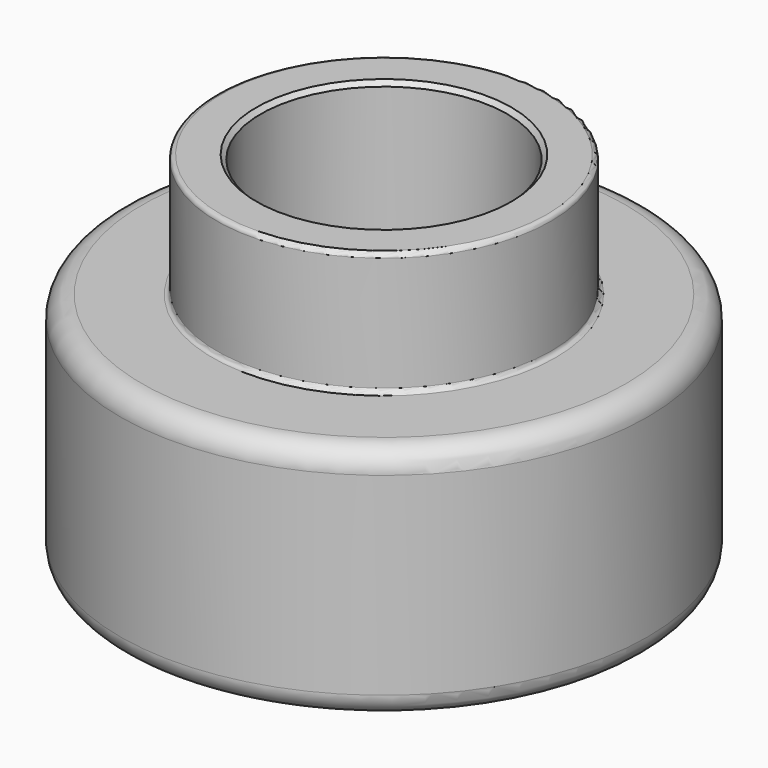
from build123d import *

# Parameters (mm, degrees)
F0_R     = 30
F0_R_2   = 19
F0_R_3   = 14
F1_DEPTH = 27
F2_DEPTH = 41
F3_R     = 2.5
F4_R     = 0.5
F5_SIZE  = 0.5


with BuildPart() as f1:
    # F0 (on Top) → F1 (new body)
    with BuildSketch(Plane.XY):
        Circle(F0_R)
        Circle(F0_R_2, mode=Mode.SUBTRACT)
        Circle(F0_R_2)
        Circle(F0_R_3, mode=Mode.SUBTRACT)
    extrude(amount=F1_DEPTH)

    # F0 (on Top) → F2 (join)
    with BuildSketch(Plane.XY):
        Circle(F0_R_2)
        Circle(F0_R_3, mode=Mode.SUBTRACT)
    extrude(amount=F2_DEPTH)

    # F3
    f3_edges = [f1.edges().sort_by_distance(p)[0] for p in [
        (-30, 0, 0),
        (-30, 0, 27),
    ]]
    fillet(f3_edges, radius=F3_R)

    # F4
    f4_edges = [f1.edges().sort_by_distance(p)[0] for p in [
        (-19, 0, 27),
        (-19, 0, 41),
    ]]
    fillet(f4_edges, radius=F4_R)

    # F5
    f5_edges = [f1.edges().sort_by_distance(p)[0] for p in [
        (-14, 0, 41),
        (-14, 0, 0),
    ]]
    chamfer(f5_edges, length=F5_SIZE)


solid = f1.part
